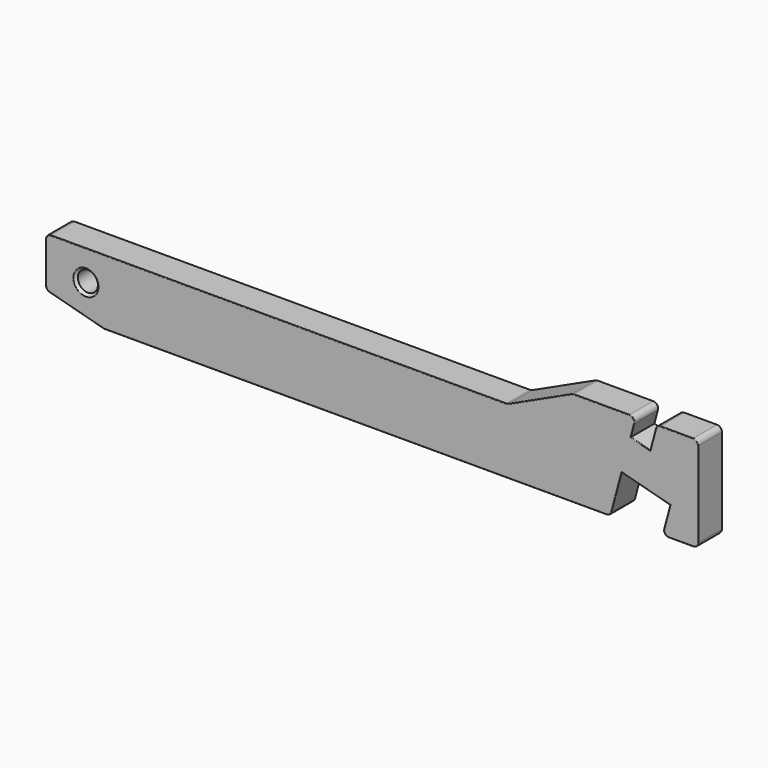
from build123d import *

# Parameters (mm, degrees)
F0_R     = 2
F1_DEPTH = 6
F2_R     = 1
F3_SIZE  = 0.5
F4_R     = 0.125


with BuildPart() as f1:
    # F0 (on Front) → F1 (new body)
    with BuildSketch(Plane.XZ):
        Polygon((0, 13), (0, 3.105829), (11.59111, 0), (112.5, 0), (114.746418, 8.383745), (124.405676, 5.795555), (122.852762, 0), (130, 0), (130, 19), (121.732139, 19), (120.419462, 14.101021), (116.555758, 15.136297), (117.591035, 19), (105, 19), (92, 13), align=None)
        with Locations((8, 7)):
            Circle(F0_R, mode=Mode.SUBTRACT)
    extrude(amount=-F1_DEPTH)

    # F2
    f2_edges = [f1.edges().sort_by_distance(p)[0] for p in [
        (130, 3, 19),
        (130, 3, 0),
        (0, 3, 13),
        (92, 3, 13),
        (105, 3, 19),
        (121.732139, 3, 19),
        (122.852762, 3, 0),
        (117.591035, 3, 19),
        (112.5, 3, 0),
        (0, 3, 3.105829),
    ]]
    fillet(f2_edges, radius=F2_R)

    # F3
    f3_edges = [f1.edges().sort_by_distance(p)[0] for p in [
        (6, 6, 7),
        (6, 0, 7),
    ]]
    chamfer(f3_edges, length=F3_SIZE)

    # F4
    f4_edges = [f1.edges().sort_by_distance(p)[0] for p in [
        (5.5, 0, 7),
        (125.749733, 0, 19),
        (129.707107, 0, 18.707107),
        (121.890705, 0, 18.793353),
        (130, 0, 9.5),
        (120.976501, 0, 16.17992),
        (129.707107, 0, 0.292893),
        (118.48761, 0, 14.618659),
        (126.577994, 0, 0),
        (116.904747, 0, 16.438739),
        (123.362634, 0, 0.391239),
        (117.081163, 0, 18.608761),
        (123.797869, 0, 3.527187),
        (110.753723, 0, 19),
        (119.576047, 0, 7.08965),
        (105.005113, 0, 18.976719),
        (113.722508, 0, 4.562463),
        (98.5, 0, 16),
        (112.341434, 0, 0.206647),
        (91.994887, 0, 13.023281),
        (61.661891, 0, 0),
        (46.390182, 0, 13),
        (6.166145, 0, 1.453615),
        (0.292893, 0, 12.707107),
        (0.206647, 0, 3.264394),
        (0, 0, 7.936578),
        (5.5, 6, 7),
        (125.749733, 6, 19),
        (129.707107, 6, 18.707107),
        (121.890705, 6, 18.793353),
        (130, 6, 9.5),
        (120.976501, 6, 16.17992),
        (129.707107, 6, 0.292893),
        (118.48761, 6, 14.618659),
        (126.577994, 6, 0),
        (116.904747, 6, 16.438739),
        (123.362634, 6, 0.391239),
        (117.081163, 6, 18.608761),
        (123.797869, 6, 3.527187),
        (110.753723, 6, 19),
        (119.576047, 6, 7.08965),
        (105.005113, 6, 18.976719),
        (113.722508, 6, 4.562463),
        (98.5, 6, 16),
        (112.341434, 6, 0.206647),
        (91.994887, 6, 13.023281),
        (61.661891, 6, 0),
        (46.390182, 6, 13),
        (6.166145, 6, 1.453615),
        (0.292893, 6, 12.707107),
        (0.206647, 6, 3.264394),
        (0, 6, 7.936578),
    ]]
    fillet(f4_edges, radius=F4_R)


solid = f1.part
